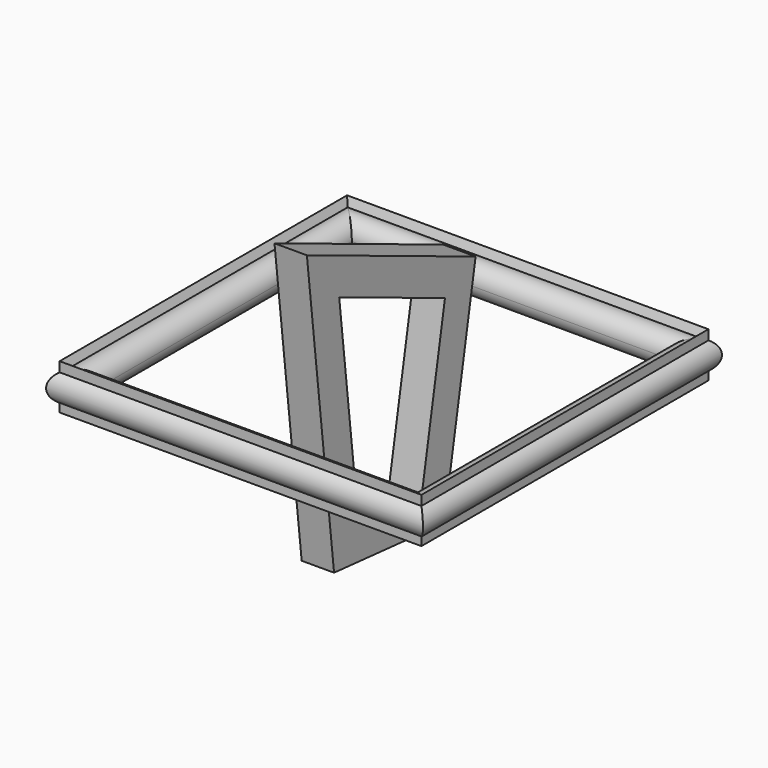
from build123d import *


with BuildPart() as f2:
    # F2: sweep along a path in F0
    with BuildLine(Plane.XY) as f2_path:
        Line((-76.9190266728, 75.929440558), (-76.9190266728, -74.6503025293))
        Line((-76.9190266728, -74.6503025293), (74.7615620494, -74.6503025293))
        Line((74.7615620494, -74.6503025293), (74.7615620494, 75.6734088063))
        Line((74.7615620494, 75.6734088063), (-76.9190266728, 75.929440558))
    # F1 (on Front) → F2 (sweep)
    with BuildSketch(Plane.XZ):
        with BuildLine():
            ThreePointArc((-79.0985139787, -6.4325190471), (-72.7924455804, -5.6335047029), (-69.8482058942, 0))
            ThreePointArc((-69.8482058942, 0), (-72.7420669571, 5.5981359113), (-78.9827263138, 6.4743369876))
            Line((-78.9827263138, 6.4743369876), (-76.7098963261, 0))
            Line((-76.7098963261, 0), (-79.0985139787, -6.4325190471))
        make_face()
        with BuildLine():
            Line((-76.7098963261, 0), (-78.9827263138, 6.4743369876))
            ThreePointArc((-78.9827263138, 6.4743369876), (-79.6462392347, 6.2016679938), (-80.277658999, 5.8612170317))
            Line((-80.277658999, 5.8612170317), (-80.277658999, -5.8612170317))
            ThreePointArc((-80.277658999, -5.8612170317), (-79.7017541342, -6.1750775249), (-79.0985139787, -6.4325190471))
            Line((-79.0985139787, -6.4325190471), (-76.7098963261, 0))
        make_face()
        with BuildLine():
            ThreePointArc((-80.277658999, 5.8612170317), (-79.6462392347, 6.2016679938), (-78.9827263138, 6.4743369876))
            Line((-78.9827263138, 6.4743369876), (-80.277658999, 10.1630557328))
            Line((-80.277658999, 10.1630557328), (-80.277658999, 5.8612170317))
        make_face()
        with BuildLine():
            Line((-80.277658999, -9.6079426205), (-79.0985139787, -6.4325190471))
            ThreePointArc((-79.0985139787, -6.4325190471), (-79.7017541342, -6.1750775249), (-80.277658999, -5.8612170317))
            Line((-80.277658999, -5.8612170317), (-80.277658999, -9.6079426205))
        make_face()
        with BuildLine():
            Line((-80.277658999, -5.8612170317), (-80.277658999, 5.8612170317))
            ThreePointArc((-80.277658999, 5.8612170317), (-83.5715867579, 0), (-80.277658999, -5.8612170317))
        make_face()
    sweep(path=f2_path.line, transition=Transition.RIGHT)


with BuildPart() as f5:
    # F5: sweep along a path in F3
    with BuildLine(Plane.YZ) as f5_path:
        Line((-43.4850491583, 58.1423304975), (-30.476687476, -54.1441440582))
        Line((-30.476687476, -54.1441440582), (18.6822358519, -58.5017614067))
        Line((18.6822358519, -58.5017614067), (33.9041054249, 26.2740924954))
        Line((33.9041054249, 26.2740924954), (-43.4850491583, 58.1423304975))
    # F4 (on Top) → F5 (sweep)
    with BuildSketch(Plane.XY):
        Polygon((-7.6896613464, 35.7444100082), (-7.6896613464, 29.3526444584), (-7.6896613464, 20.6260532141), (6.487286184, 20.6260532141), (6.487286184, 35.7444100082), align=None)
    sweep(path=f5_path.line, transition=Transition.RIGHT)


solid = Compound([f2.part, f5.part])
